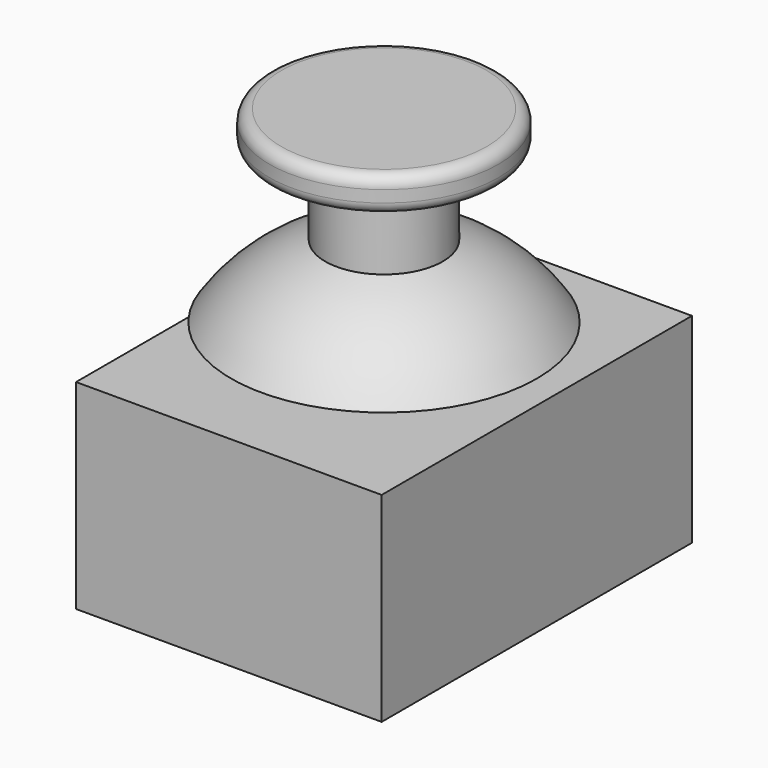
from build123d import *

# Parameters (mm, degrees)
SKETCH008_W  = 26
SKETCH008_H  = 33
PAD002_DEPTH = 17
SKETCH009_R  = 5
PAD003_DEPTH = 34
SKETCH011_R  = 9.75
PAD004_DEPTH = 1.5
FILLET002_R  = 1
FILLET003_R  = 1


with BuildPart() as part:
    # Sketch008 → Pad002 (new body)
    with BuildSketch(Plane.XY):
        with Locations((13, 16.5)):
            Rectangle(SKETCH008_W, SKETCH008_H)
    extrude(amount=PAD002_DEPTH)

    # Sketch009 → Pad003 (join)
    with BuildSketch(Plane.XY):
        with Locations((13, 16.5)):
            Circle(SKETCH009_R)
    extrude(amount=PAD003_DEPTH)

    # Sketch010 → Revolution (revolve)
    with BuildSketch(Plane(origin=(13, 16.5, 2), x_dir=(1, 0, 0), z_dir=(0, -1, 0))):
        with BuildLine():
            Line((0, 24), (0, 17))
            Line((0, 17), (-13, 17))
            ThreePointArc((0, 24), (-7.382412, 22.138764), (-13, 17))
        make_face()
    revolve(axis=Axis((13, 16.5, 2), (0, 0, 1)))

    # Sketch011 → Pad004 (join, symmetric)
    with BuildSketch(Plane.XY.offset(33.5)):
        with Locations((13, 16.5)):
            Circle(SKETCH011_R)
    extrude(amount=PAD004_DEPTH, both=True)

    # Fillet002
    fillet002_edges = [part.edges().sort_by_distance(p)[0] for p in [
        (3.25, 16.5, 35),
    ]]
    fillet(fillet002_edges, radius=FILLET002_R)

    # Fillet003
    fillet003_edges = [part.edges().sort_by_distance(p)[0] for p in [
        (3.25, 16.5, 32),
    ]]
    fillet(fillet003_edges, radius=FILLET003_R)


solid = part.part
